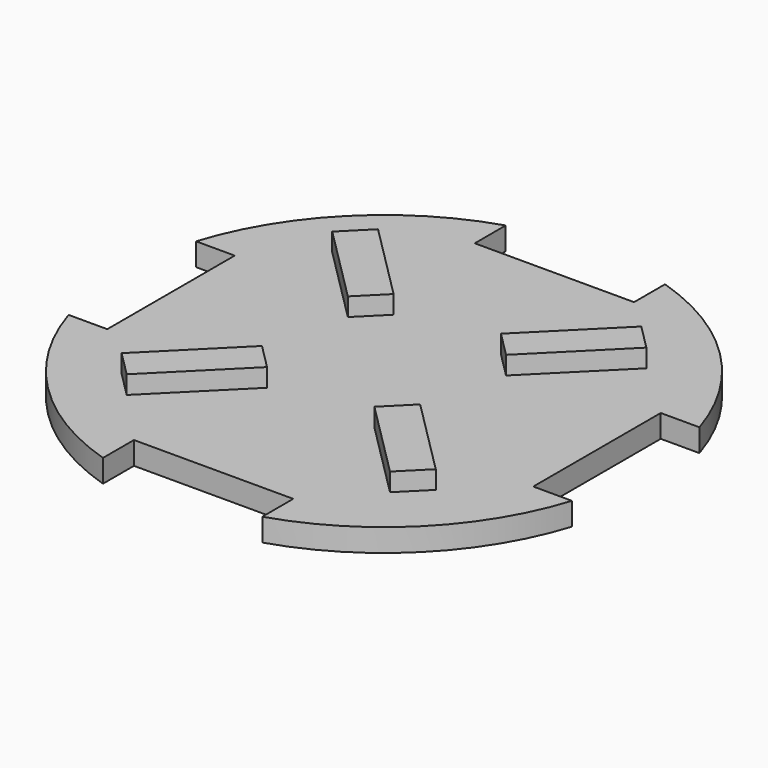
from build123d import *

# Parameters (mm, degrees)
F1_DEPTH = 5
F3_DEPTH = 4


with BuildPart() as f1:
    # F0 (on Top) → F1 (new body)
    with BuildSketch(Plane.XY):
        with BuildLine():
            Line((46.796926, 17.5), (55.296926, 17.5))
            ThreePointArc((55.296926, 17.5), (41.012193, 41.012193), (17.5, 55.296926))
            Line((17.5, 55.296926), (17.5, 46.796926))
            Line((17.5, 46.796926), (-17.5, 46.796926))
            Line((-17.5, 46.796926), (-17.5, 55.296926))
            ThreePointArc((-17.5, 55.296926), (-41.012193, 41.012193), (-55.296926, 17.5))
            Line((-55.296926, 17.5), (-46.796926, 17.5))
            Line((-46.796926, 17.5), (-46.796926, -17.5))
            Line((-46.796926, -17.5), (-55.296926, -17.5))
            ThreePointArc((-55.296926, -17.5), (-41.012193, -41.012193), (-17.5, -55.296926))
            Line((-17.5, -55.296926), (-17.5, -46.796926))
            Line((-17.5, -46.796926), (17.5, -46.796926))
            Line((17.5, -46.796926), (17.5, -55.296926))
            ThreePointArc((17.5, -55.296926), (41.012193, -41.012193), (55.296926, -17.5))
            Line((55.296926, -17.5), (46.796926, -17.5))
            Line((46.796926, -17.5), (46.796926, 17.5))
        make_face()
    extrude(amount=F1_DEPTH)

    # F2 (on face) → F3 (join)
    with BuildSketch(Plane.XY.offset(5)):
        Polygon((-28.921893, 34.50774), (-34.50774, 28.921893), (-17.377576, 11.791728), (-11.791728, 17.377576), align=None)
        Polygon((17.377576, 11.791728), (34.50774, 28.921893), (28.921893, 34.50774), (11.791728, 17.377576), align=None)
        Polygon((11.791728, -17.377576), (28.921893, -34.50774), (34.50774, -28.921893), (17.377576, -11.791728), align=None)
        Polygon((-17.377576, -11.791728), (-34.50774, -28.921893), (-28.921893, -34.50774), (-11.791728, -17.377576), align=None)
    extrude(amount=F3_DEPTH)


solid = f1.part
